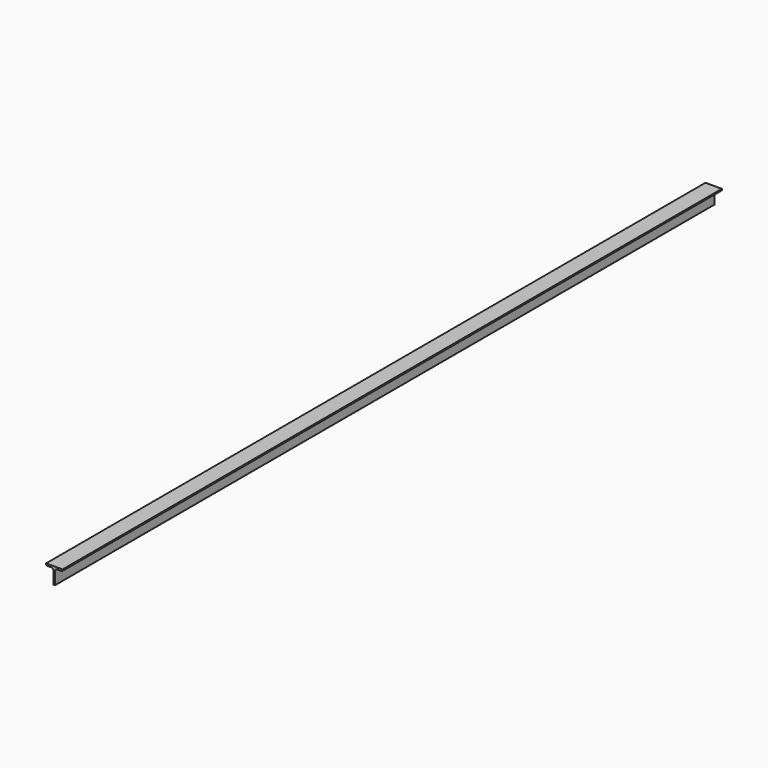
from build123d import *

# Parameters (mm, degrees)
F1_DEPTH = 4005


with BuildPart() as f1:
    # F0 (on Front) → F1 (new body)
    with BuildSketch(Plane.XZ):
        with BuildLine():
            Line((35.5, 0), (0, 0))
            Line((0, 0), (0, -4.5))
            ThreePointArc((0, -4.5), (1.318019, -7.681981), (4.5, -9))
            Line((4.5, -9), (26.5, -9))
            ThreePointArc((26.5, -9), (32.863961, -11.636039), (35.5, -18))
            Line((35.5, -18), (35.5, -78))
            ThreePointArc((35.5, -78), (36.085786, -79.414214), (37.5, -80))
            Line((37.5, -80), (42.5, -80))
            ThreePointArc((42.5, -80), (43.914214, -79.414214), (44.5, -78))
            Line((44.5, -78), (44.5, -18))
            ThreePointArc((44.5, -18), (47.136039, -11.636039), (53.5, -9))
            Line((53.5, -9), (75.5, -9))
            ThreePointArc((75.5, -9), (78.681981, -7.681981), (80, -4.5))
            Line((80, -4.5), (80, 0))
            Line((80, 0), (44.5, 0))
            Line((44.5, 0), (35.5, 0))
        make_face()
    extrude(amount=-F1_DEPTH)


solid = f1.part
